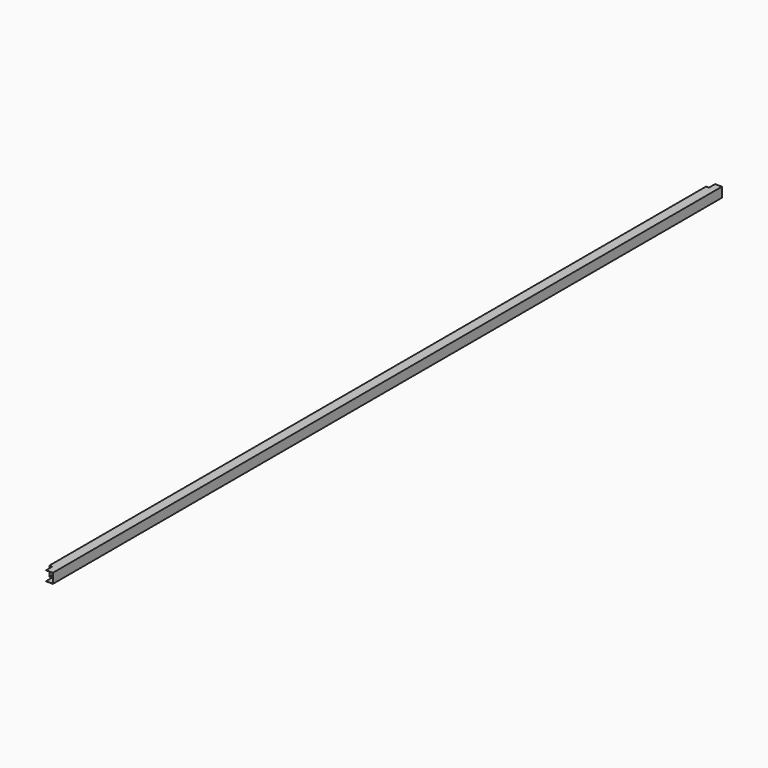
from build123d import *

# Parameters (mm, degrees)
F0_W     = 50
F0_H     = 50
F0_W_2   = 48
F0_H_2   = 48
F1_DEPTH = 2130.89835
F2_W     = 39
F2_H     = 50
F3_DEPTH = 15


with BuildPart() as f1:
    # F0 (on Front) → F1 (new body, symmetric)
    with BuildSketch(Plane.XZ):
        Rectangle(F0_W, F0_H)
        Rectangle(F0_W_2, F0_H_2, mode=Mode.SUBTRACT)
    extrude(amount=F1_DEPTH, both=True)

    # F2 (on face) → F3 (cut)
    with BuildSketch(Plane(origin=(-25, 0, 0), x_dir=(0, -1, 0), z_dir=(-1, 0, 0))):
        with Locations((-2111.39835, 0)):
            Rectangle(F2_W, F2_H)
        with Locations((2111.39835, 0)):
            Rectangle(F2_W, F2_H)
    extrude(amount=-F3_DEPTH, mode=Mode.SUBTRACT)


solid = f1.part
